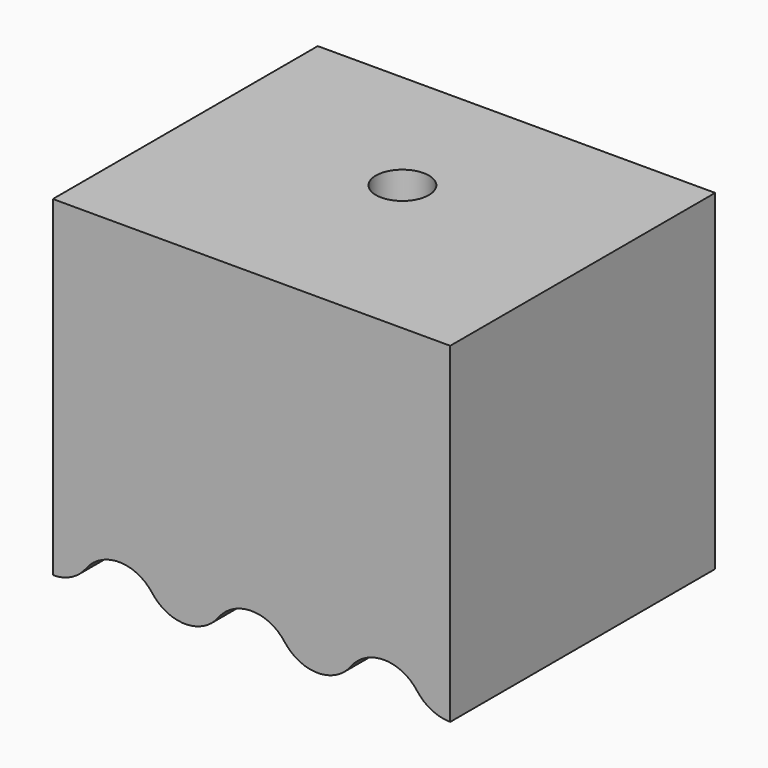
from build123d import *

# Parameters (mm, degrees)
F1_DEPTH = 10
F2_R     = 0.8
F3_DEPTH = 25


with BuildPart() as f1:
    # F0 (on Front) → F1 (new body)
    with BuildSketch(Plane.XZ):
        with BuildLine():
            ThreePointArc((-5, -4.5), (-4, -4), (-3, -4.5))
            ThreePointArc((-3, -4.5), (-2, -5), (-1, -4.5))
            ThreePointArc((-1, -4.5), (0, -4), (1, -4.5))
            ThreePointArc((1, -4.5), (2, -5), (3, -4.5))
            ThreePointArc((3, -4.5), (4, -4), (5, -4.5))
            ThreePointArc((5, -4.5), (5.440983, -4.868034), (6, -5))
            Line((6, -5), (6, 5))
            Line((6, 5), (-6, 5))
            Line((-6, 5), (-6, -5))
            ThreePointArc((-6, -5), (-5.440983, -4.868034), (-5, -4.5))
        make_face()
    extrude(amount=F1_DEPTH)

    # F2 (on face) → F3 (cut)
    with BuildSketch(Plane.XY.offset(5)):
        with Locations((0, -4.304862)):
            Circle(F2_R)
    extrude(amount=-F3_DEPTH, mode=Mode.SUBTRACT)


solid = f1.part
